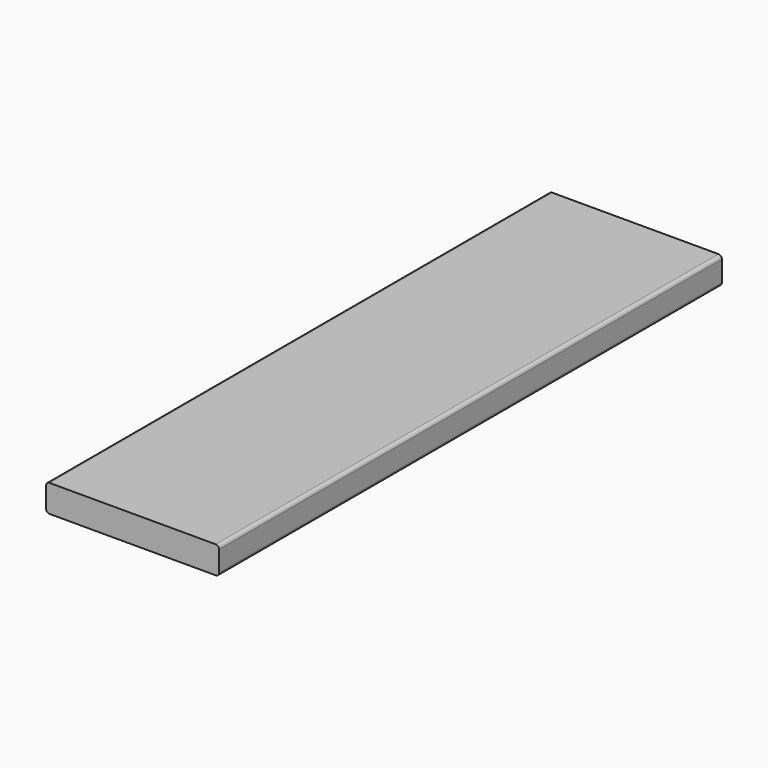
from build123d import *

# Parameters (mm, degrees)
F1_DEPTH = 438.15


with BuildPart() as f1:
    # F0 (on Front) → F1 (new body, symmetric)
    with BuildSketch(Plane.XZ):
        with BuildLine():
            Line((115.824, 19.05), (-115.824, 19.05))
            ThreePointArc((-115.824, 19.05), (-119.236497, 17.636497), (-120.65, 14.224))
            Line((-120.65, 14.224), (-120.65, -14.224))
            ThreePointArc((-120.65, -14.224), (-119.236497, -17.636497), (-115.824, -19.05))
            Line((-115.824, -19.05), (115.824, -19.05))
            ThreePointArc((115.824, -19.05), (119.236497, -17.636497), (120.65, -14.224))
            Line((120.65, -14.224), (120.65, 14.224))
            ThreePointArc((120.65, 14.224), (119.236497, 17.636497), (115.824, 19.05))
        make_face()
    extrude(amount=F1_DEPTH, both=True)


solid = f1.part
